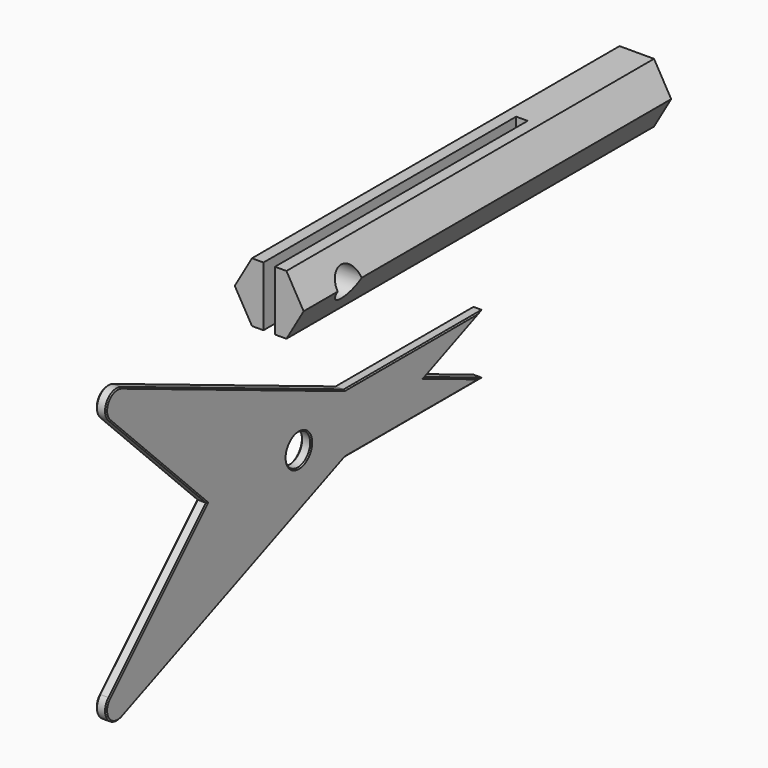
from build123d import *

# Parameters (mm, degrees)
PAD_DEPTH            = 80
SKETCH001_W          = 2
SKETCH001_H          = 10.392304
POCKET_DEPTH         = 55
SKETCH002_R          = 2.6
POCKET001_DEPTH      = 6.001
POCKET001_DEPTH_BACK = -6.001
SKETCH003_R          = 2.7
PAD001_DEPTH         = 1.8
CHAMFER_SIZE         = 0.2


with BuildPart() as shaft:
    # Sketch → Pad (new body)
    with BuildSketch(Plane.XZ):
        Polygon((-3, 5.196152), (-6, 0), (-3, -5.196152), (3, -5.196152), (6, 0), (3, 5.196152), align=None)
    extrude(amount=PAD_DEPTH)

    # Sketch001 (on Face8 of Pad) → Pocket (cut)
    with BuildSketch(Plane.XZ.offset(80)):
        Rectangle(SKETCH001_W, SKETCH001_H)
    extrude(amount=-POCKET_DEPTH, mode=Mode.SUBTRACT)

    # Sketch002 → Pocket001 (cut, two sides)
    with BuildSketch(Plane.YZ) as pocket001_sk:
        with Locations((-70, 0)):
            Circle(SKETCH002_R)
    extrude(amount=-POCKET001_DEPTH, mode=Mode.SUBTRACT)
    extrude(pocket001_sk.sketch, amount=-POCKET001_DEPTH_BACK, mode=Mode.SUBTRACT)


with BuildPart() as finder:
    # Sketch003 → Pad001 (new body)
    with BuildSketch(Plane.YZ):
        with BuildLine():
            Line((-116.997551, -3.166671), (-95.784347, -24.379874))
            Line((-95.784347, -24.379874), (-116.997551, -45.593078))
            ThreePointArc((-116.997551, -45.593078), (-117.308338, -48.74995), (-114.272676, -49.670378))
            Line((-114.272676, -49.670378), (-65.784347, -29.576027))
            Line((-65.784347, -29.576027), (-35.784347, -29.576027))
            Line((-48.328969, -24.379874), (-35.784347, -29.576027))
            Line((-35.784347, -19.183722), (-48.328969, -24.379874))
            Line((-35.784347, -19.183722), (-65.784347, -19.183722))
            Line((-65.784347, -19.183722), (-114.272676, 0.910629))
            ThreePointArc((-114.272676, 0.910629), (-117.308338, -0.009799), (-116.997551, -3.166671))
        make_face()
        with Locations((-75.784347, -24.379874)):
            Circle(SKETCH003_R, mode=Mode.SUBTRACT)
    extrude(amount=PAD001_DEPTH)

    # Chamfer
    chamfer_edges = [finder.edges().sort_by_distance(p)[0] for p in [
        (1.8, -50.784347, -19.183722),
        (1.8, -90.028512, -9.136546),
        (1.8, -117.308338, -0.009799),
        (1.8, -106.390949, -13.773273),
        (1.8, -106.390949, -34.986476),
        (1.8, -117.308338, -48.74995),
        (1.8, -90.028512, -39.623203),
        (1.8, -50.784347, -29.576027),
        (1.8, -42.056658, -26.977951),
        (1.8, -42.056658, -21.781798),
        (1.8, -78.484347, -24.379874),
        (0, -50.784347, -19.183722),
        (0, -90.028512, -9.136546),
        (0, -117.308338, -0.009799),
        (0, -106.390949, -13.773273),
        (0, -106.390949, -34.986476),
        (0, -117.308338, -48.74995),
        (0, -90.028512, -39.623203),
        (0, -50.784347, -29.576027),
        (0, -42.056658, -26.977951),
        (0, -42.056658, -21.781798),
        (0, -78.484347, -24.379874),
    ]]
    chamfer(chamfer_edges, length=CHAMFER_SIZE)


solid = Compound([shaft.part, finder.part])
